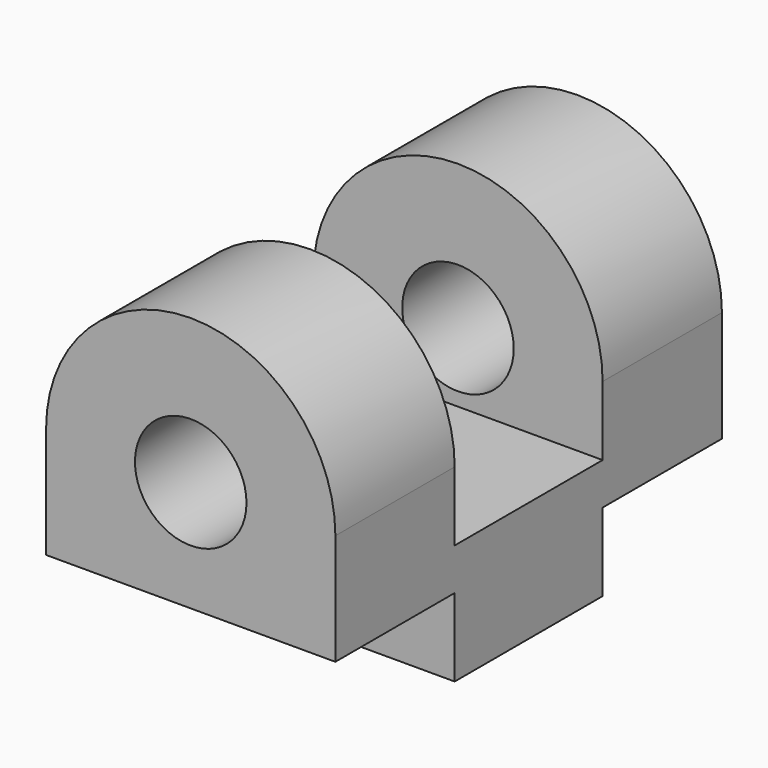
from build123d import *

# Parameters (mm, degrees)
F1_DEPTH = 65
F3_W     = 40.1219656318
F3_H     = 20.9779888391
F3_W_2   = 49.7560687363
F3_H_2   = 38.9171534163
F3_H_3   = 18.6112551019
F4_DEPTH = 77.8353068326
F5_R     = 15
F6_DEPTH = 130.001


with BuildPart() as f1:
    # F0 (on Front) → F1 (new body, symmetric)
    with BuildSketch(Plane.XZ):
        with BuildLine():
            Line((38.9171534163, -50.8422553539), (38.9171534163, 0))
            ThreePointArc((38.9171534163, 0), (0, 38.9171534163), (-38.9171534163, 0))
            Line((-38.9171534163, 0), (-38.9171534163, -50.8422553539))
            Line((-38.9171534163, -50.8422553539), (38.9171534163, -50.8422553539))
        make_face()
    extrude(amount=F1_DEPTH, both=True)

    # F3 (on face) → F4 (cut, through all)
    with BuildSketch(Plane.YZ.offset(38.9171534163)):
        with Locations((-44.9390171841, -40.3532609344)):
            Rectangle(F3_W, F3_H)
        with Locations((44.9390171841, -40.3532609344)):
            Rectangle(F3_W, F3_H)
        with Locations((0, 19.4585767082)):
            Rectangle(F3_W_2, F3_H_2)
        with Locations((0, -9.3056275509)):
            Rectangle(F3_W_2, F3_H_3)
    extrude(amount=-F4_DEPTH, mode=Mode.SUBTRACT)

    # F5 (on face) → F6 (cut, through all)
    with BuildSketch(Plane.XZ.offset(65)):
        Circle(F5_R)
    extrude(amount=-F6_DEPTH, mode=Mode.SUBTRACT)


solid = f1.part
